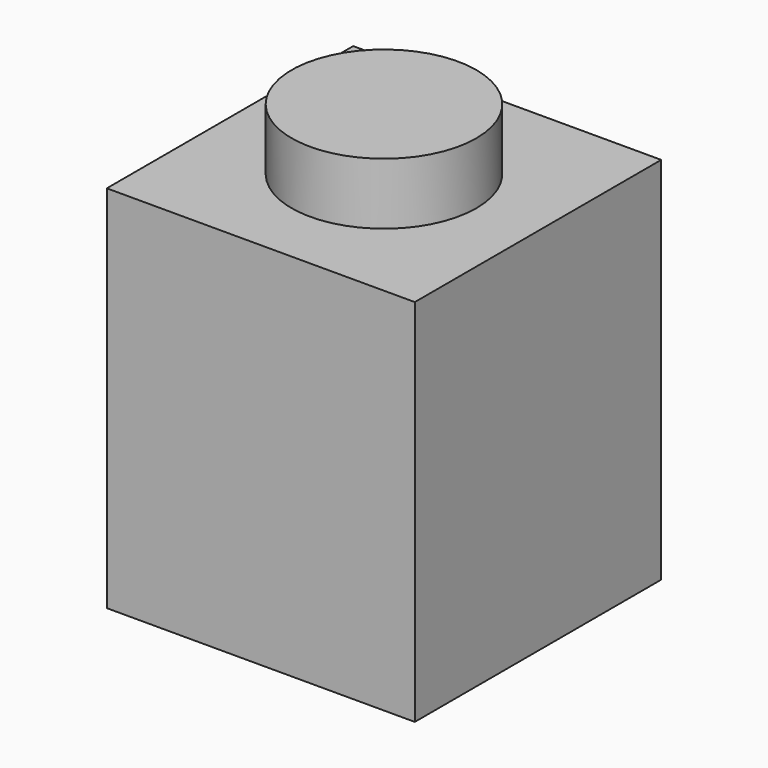
from build123d import *

# Parameters (mm, degrees)
F0_W     = 7.9375
F0_H     = 7.9375
F0_R     = 2.38125
F1_DEPTH = 9.525
F2_DEPTH = 11.1125
F3_T     = -1.5875


with BuildPart() as f1:
    # F0 (on Top) → F1 (new body)
    with BuildSketch(Plane.XY):
        Rectangle(F0_W, F0_H)
        Circle(F0_R, mode=Mode.SUBTRACT)
    extrude(amount=F1_DEPTH)

    # F0 (on Top) → F2 (join)
    with BuildSketch(Plane.XY):
        Circle(F0_R)
    extrude(amount=F2_DEPTH)

    # F3
    f3_openings = [f1.faces().sort_by_distance(p)[0] for p in [
        (0, 0, 0),
    ]]
    offset(amount=F3_T, openings=f3_openings, kind=Kind.INTERSECTION)


solid = f1.part
